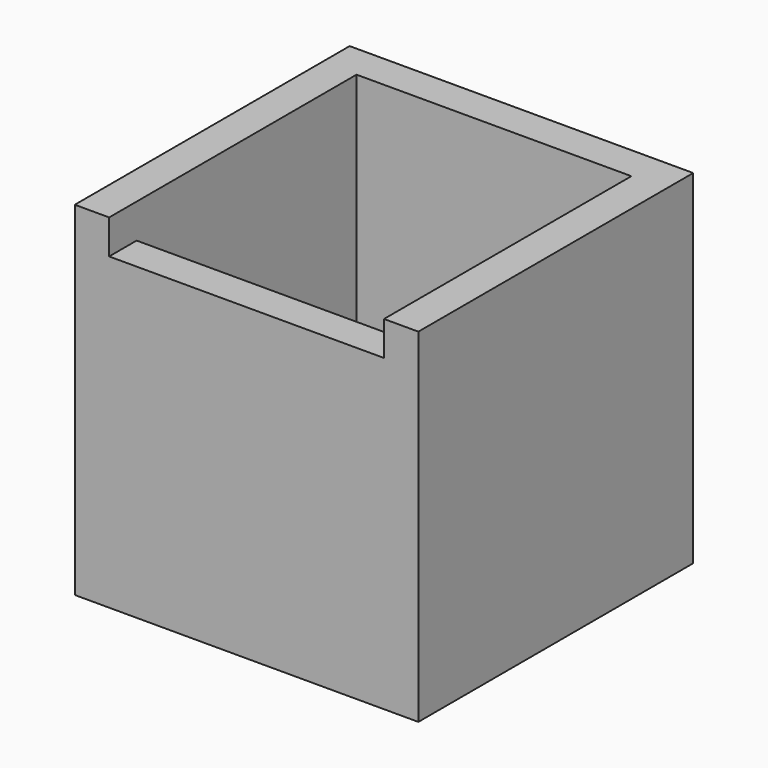
from build123d import *

# Parameters (mm, degrees)
F0_W     = 25.4
F0_H     = 22.86
F1_DEPTH = 25.4
F2_T     = -2.54
F4_DEPTH = 2.54


with BuildPart() as f1:
    # F0 (on Front) → F1 (new body)
    with BuildSketch(Plane.XZ):
        Rectangle(F0_W, F0_H)
    extrude(amount=F1_DEPTH)

    # F2
    f2_openings = [f1.faces().sort_by_distance(p)[0] for p in [
        (0, -12.7, 11.43),
    ]]
    offset(amount=F2_T, openings=f2_openings)

    # F3 (on face) → F4 (join)
    with BuildSketch(Plane.XY.offset(11.43)):
        Polygon((12.7, 0), (-12.7, 0), (-12.7, -25.4), (-10.16, -25.4), (-10.16, -2.54), (10.16, -2.54), (10.16, -25.4), (12.7, -25.4), align=None)
    extrude(amount=F4_DEPTH)


solid = f1.part
